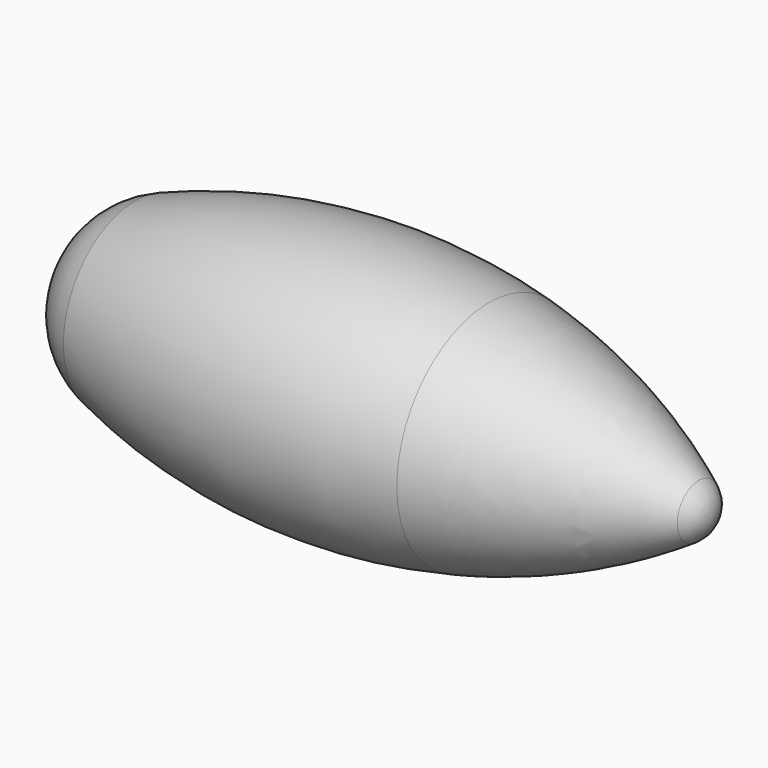
from build123d import *


with BuildPart() as f1:
    # F0 (on Top) → F1 (revolve)
    with BuildSketch(Plane.XY):
        with BuildLine():
            Line((0, 0), (15, 0))
            ThreePointArc((15, 0), (8.540779, 12.331062), (-5.274012, 14.04225))
            ThreePointArc((-5.274012, 14.04225), (-12.331062, 8.540779), (-15, 0))
            Line((-15, 0), (0, 0))
        make_face()
        with BuildLine():
            ThreePointArc((-5.274012, 14.04225), (8.540779, 12.331062), (15, 0))
            Line((15, 0), (50, 0))
            Line((50, 0), (50, 18))
            ThreePointArc((50, 18), (22.076252, 20.025773), (-5.274012, 14.04225))
        make_face()
        with BuildLine():
            Line((50, 18), (50, 0))
            Line((50, 0), (75, 0))
            ThreePointArc((75, 0), (77.628664, 4.401905), (82.750705, 4.175359))
            ThreePointArc((82.750705, 4.175359), (67.009973, 12.591101), (50, 18))
        make_face()
        with BuildLine():
            ThreePointArc((82.750705, 4.175359), (77.628664, 4.401905), (75, 0))
            Line((75, 0), (80, 0))
            Line((80, 0), (85, 0))
            ThreePointArc((85, 0), (84.401905, 2.371336), (82.750705, 4.175359))
        make_face()
    revolve(axis=Axis((35, 0, 0), (1, 0, 0)))


solid = f1.part
